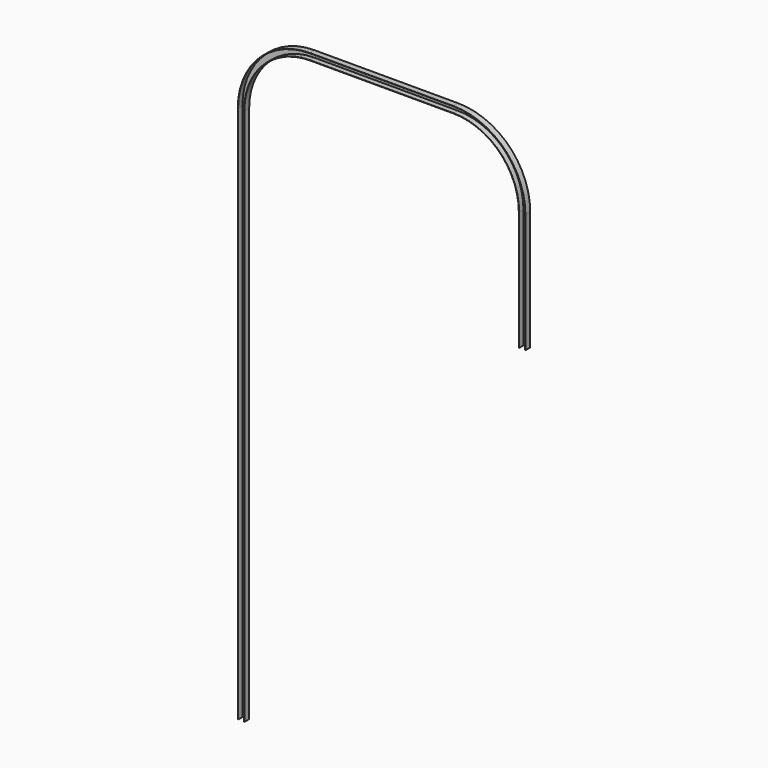
from build123d import *

# Parameters (mm, degrees)
F1_DEPTH = 1
F2_DEPTH = 10
F3_DEPTH = 700
F5_D     = 4


with BuildPart() as f1:
    # F0 (on Front) → F1 (new body)
    with BuildSketch(Plane.XZ):
        with BuildLine():
            Line((-292.7657316476, 450), (-292.7657316476, -450))
            Line((-292.7657316476, -450), (-287.7657316476, -450))
            Line((-287.7657316476, -450), (-282.7657316476, -450))
            Line((-282.7657316476, -450), (-282.7657316476, 450))
            ThreePointArc((-282.7657316476, 450), (-250.5474775781, 527.7817459305), (-172.7657316476, 560))
            Line((-172.7657316476, 560), (67.2342683524, 560))
            ThreePointArc((67.2342683524, 560), (145.0160142829, 527.7817459305), (177.2342683524, 450))
            Line((177.2342683524, 450), (177.2342683524, -450))
            Line((177.2342683524, -450), (187.2342683524, -450))
            Line((187.2342683524, -450), (187.2342683524, 450))
            ThreePointArc((187.2342683524, 450), (152.0870820948, 534.8528137424), (67.2342683524, 570))
            Line((67.2342683524, 570), (-172.7657316476, 570))
            ThreePointArc((-172.7657316476, 570), (-257.61854539, 534.8528137424), (-292.7657316476, 450))
        make_face()
    extrude(amount=F1_DEPTH)

    # F0 (on Front) → F2 (join)
    with BuildSketch(Plane.XZ):
        with BuildLine():
            Line((-293.2657316476, 450), (-293.2657316476, -450))
            Line((-293.2657316476, -450), (-292.7657316476, -450))
            Line((-292.7657316476, -450), (-292.7657316476, 450))
            ThreePointArc((-292.7657316476, 450), (-257.61854539, 534.8528137424), (-172.7657316476, 570))
            Line((-172.7657316476, 570), (67.2342683524, 570))
            ThreePointArc((67.2342683524, 570), (152.0870820948, 534.8528137424), (187.2342683524, 450))
            Line((187.2342683524, 450), (187.2342683524, -450))
            Line((187.2342683524, -450), (187.7342683524, -450))
            Line((187.7342683524, -450), (187.7342683524, 450))
            ThreePointArc((187.7342683524, 450), (152.4406354854, 535.206367133), (67.2342683524, 570.5))
            Line((67.2342683524, 570.5), (-172.7657316476, 570.5))
            ThreePointArc((-172.7657316476, 570.5), (-257.9720987806, 535.206367133), (-293.2657316476, 450))
        make_face()
        with BuildLine():
            Line((-282.7657316476, 450), (-282.7657316476, -450))
            Line((-282.7657316476, -450), (-282.2657316476, -450))
            Line((-282.2657316476, -450), (-282.2657316476, 450))
            ThreePointArc((-282.2657316476, 450), (-250.1939241875, 527.4281925399), (-172.7657316476, 559.5))
            Line((-172.7657316476, 559.5), (67.2342683524, 559.5))
            ThreePointArc((67.2342683524, 559.5), (144.6624608923, 527.4281925399), (176.7342683524, 450))
            Line((176.7342683524, 450), (176.7342683524, -450))
            Line((176.7342683524, -450), (177.2342683524, -450))
            Line((177.2342683524, -450), (177.2342683524, 450))
            ThreePointArc((177.2342683524, 450), (145.0160142829, 527.7817459305), (67.2342683524, 560))
            Line((67.2342683524, 560), (-172.7657316476, 560))
            ThreePointArc((-172.7657316476, 560), (-250.5474775781, 527.7817459305), (-282.7657316476, 450))
        make_face()
    extrude(amount=F2_DEPTH)

    # F3 (cut): a face of the model
    f3_faces = [f1.faces().sort_by_distance(p)[0] for p in [
        (182.2342683524, -0.1486606875, -450),
    ]]
    extrude(f3_faces, amount=-F3_DEPTH, mode=Mode.SUBTRACT)

    # F5 (through all)
    with Locations(Plane.XZ.offset(1)):
        with Locations((-287.7128323337, 453.4766965134)):
            Hole(F5_D / 2)


solid = f1.part
